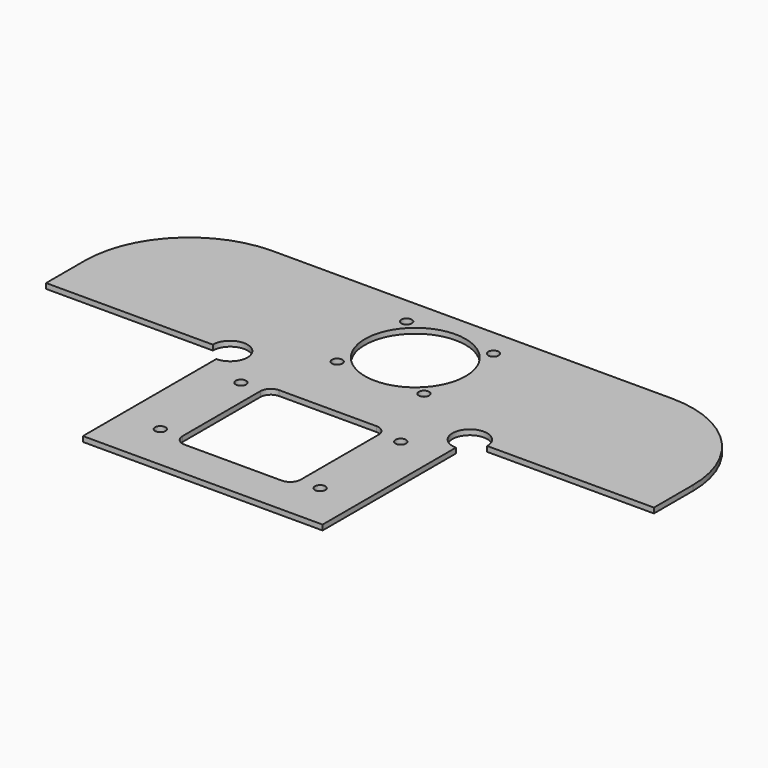
from build123d import *

# Parameters (mm, degrees)
SKETCH_R   = 1.5
SKETCH_R_2 = 14.5
PAD_DEPTH  = 1.5


with BuildPart() as part:
    # Sketch → Pad (new body)
    with BuildSketch(Plane.XY):
        with BuildLine():
            Line((34.5, -45), (-34.5, -45))
            Line((-34.5, 3), (-34.5, -45))
            ThreePointArc((-34.5, 3), (-30.964466, 11.535534), (-39.5, 8))
            Line((-87.5, 8), (-39.5, 8))
            Line((-87.5, 22), (-87.5, 8))
            ThreePointArc((-57.5, 52), (-78.713203, 43.213203), (-87.5, 22))
            Line((57.5, 52), (-57.5, 52))
            ThreePointArc((87.5, 22), (78.713203, 43.213203), (57.5, 52))
            Line((87.5, 22), (87.5, 8))
            Line((87.5, 8), (39.5, 8))
            ThreePointArc((39.5, 8), (30.964466, 11.535534), (34.5, 3))
            Line((34.5, 3), (34.5, -45))
        make_face()
        with Locations((23, -2.5)):
            Circle(SKETCH_R, mode=Mode.SUBTRACT)
        with Locations((23, -31.5)):
            Circle(SKETCH_R, mode=Mode.SUBTRACT)
        with Locations((-23, -2.5)):
            Circle(SKETCH_R, mode=Mode.SUBTRACT)
        with Locations((-23, -31.5)):
            Circle(SKETCH_R, mode=Mode.SUBTRACT)
        with Locations((0, 31.5)):
            Circle(SKETCH_R_2, mode=Mode.SUBTRACT)
        with Locations((-12.5, 44)):
            Circle(SKETCH_R, mode=Mode.SUBTRACT)
        with Locations((12.5, 44)):
            Circle(SKETCH_R, mode=Mode.SUBTRACT)
        with Locations((12.5, 19)):
            Circle(SKETCH_R, mode=Mode.SUBTRACT)
        with Locations((-12.5, 19)):
            Circle(SKETCH_R, mode=Mode.SUBTRACT)
        with BuildLine():
            Line((-14, 0), (14, 0))
            ThreePointArc((17, -3), (16.12132, -0.87868), (14, 0))
            Line((17, -3), (17, -31))
            ThreePointArc((14, -34), (16.12132, -33.12132), (17, -31))
            Line((14, -34), (-14, -34))
            ThreePointArc((-17, -31), (-16.12132, -33.12132), (-14, -34))
            Line((-17, -31), (-17, -3))
            ThreePointArc((-14, 0), (-16.12132, -0.87868), (-17, -3))
        make_face(mode=Mode.SUBTRACT)
    extrude(amount=PAD_DEPTH)


solid = part.part
